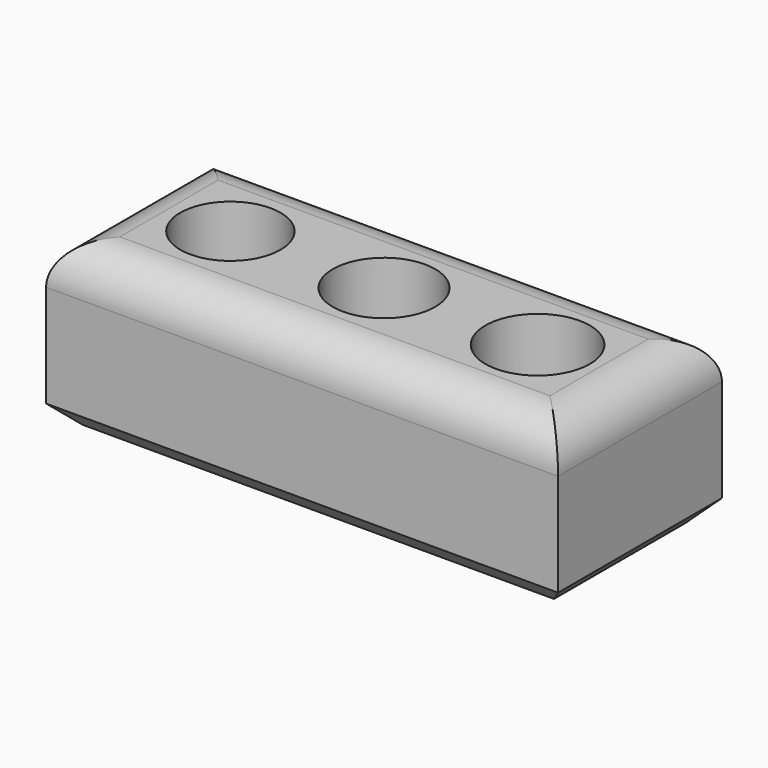
from build123d import *

# Parameters (mm, degrees)
F0_W     = 25
F0_H     = 10
F0_R     = 2.45
F0_R_2   = 2.5
F0_R_3   = 2.55
F1_DEPTH = 8
F2_R     = 2
F3_SIZE  = 1


with BuildPart() as f1:
    # F0 (on Top) → F1 (new body)
    with BuildSketch(Plane.XY):
        Rectangle(F0_W, F0_H)
        with Locations((-7.5, 0)):
            Circle(F0_R, mode=Mode.SUBTRACT)
        Circle(F0_R_2, mode=Mode.SUBTRACT)
        with Locations((7.5, 0)):
            Circle(F0_R_3, mode=Mode.SUBTRACT)
    extrude(amount=F1_DEPTH)

    # F2
    f2_edges = [f1.edges().sort_by_distance(p)[0] for p in [
        (0, -5, 8),
        (-12.5, 0, 8),
        (0, 5, 8),
        (12.5, 0, 8),
    ]]
    fillet(f2_edges, radius=F2_R)

    # F3
    f3_edges = [f1.edges().sort_by_distance(p)[0] for p in [
        (-12.5, 0, 0),
        (0, -5, 0),
        (0, 5, 0),
        (12.5, 0, 0),
    ]]
    chamfer(f3_edges, length=F3_SIZE)


solid = f1.part
